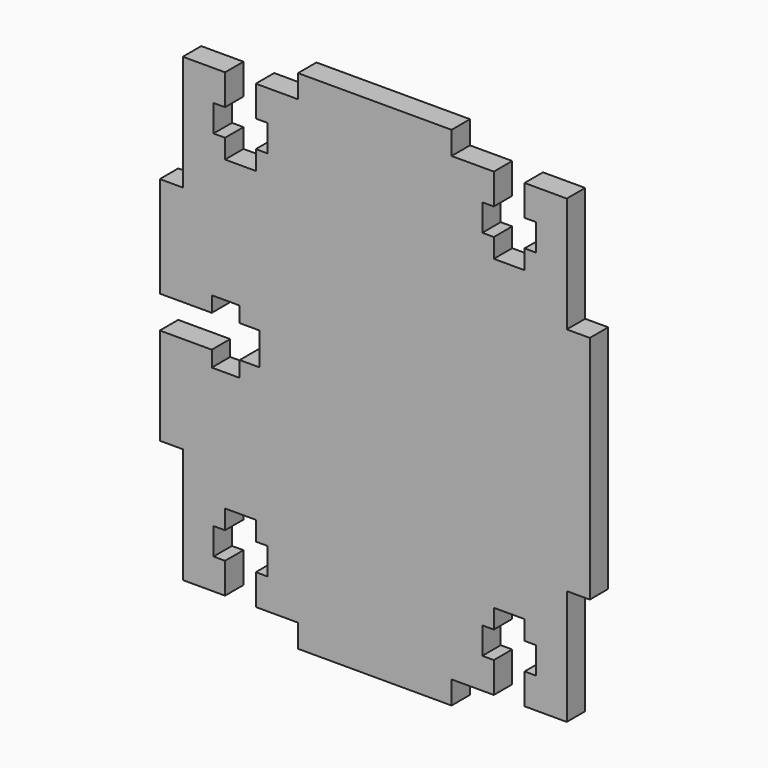
from build123d import *

# Parameters (mm, degrees)
F1_DEPTH = 3


with BuildPart() as f1:
    # F0 (on Front) → F1 (new body)
    with BuildSketch(Plane.XZ):
        Polygon((-19.5, 30), (-25, 30), (-25, 15), (-28, 15), (-28, 1.864177), (-21.228945, 1.864177), (-21.228945, 3.883214), (-17.589383, 3.883214), (-17.589383, 1.864177), (-15.034496, 1.864177), (-15.034496, -2.361541), (-17.589383, -2.361541), (-17.589383, -4.411602), (-21.228945, -4.411602), (-21.228945, -2.361541), (-28, -2.361541), (-28, -15), (-25, -15), (-25, -30), (-19.5, -30), (-19.5, -26), (-21, -26), (-21, -22.5), (-19.5, -22.5), (-19.5, -20), (-15.5, -20), (-15.5, -22.5), (-14, -22.5), (-14, -26), (-15.5, -26), (-15.5, -30), (-10, -30), (-10, -33), (10, -33), (10, -30), (15.5, -30), (15.5, -26), (14, -26), (14, -22.5), (15.5, -22.5), (15.5, -20), (19.5, -20), (19.5, -22.5), (21, -22.5), (21, -26), (19.5, -26), (19.5, -30), (25, -30), (25, -15), (28, -15), (28, 15), (25, 15), (25, 30), (19.5, 30), (19.5, 26), (21, 26), (21, 22.5), (19.5, 22.5), (19.5, 20), (15.5, 20), (15.5, 22.5), (14, 22.5), (14, 26), (15.5, 26), (15.5, 30), (10, 30), (10, 33), (-10, 33), (-10, 30), (-15.5, 30), (-15.5, 26), (-14, 26), (-14, 22.5), (-15.5, 22.5), (-15.5, 20), (-19.5, 20), (-19.5, 22.5), (-21, 22.5), (-21, 26), (-19.5, 26), align=None)
    extrude(amount=F1_DEPTH)


solid = f1.part
